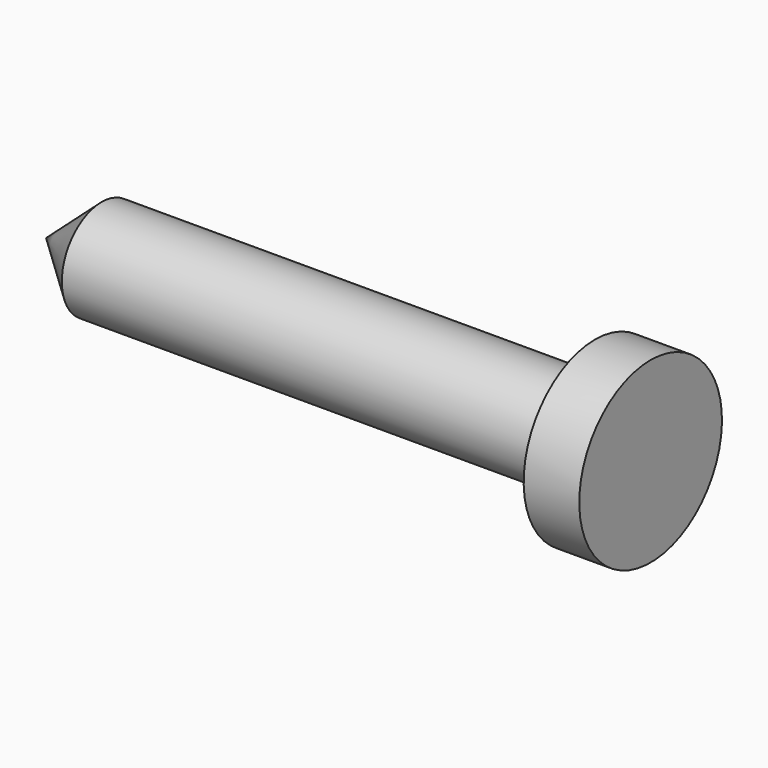
from build123d import *

# Parameters (mm, degrees)
F0_W = 60.7562530786
F0_H = 6.1326734722


with BuildPart() as f1:
    # F0 (on Front) → F1 (revolve)
    with BuildSketch(Plane.XZ):
        with Locations((-3.5655079409, 3.0663367361)):
            Rectangle(F0_W, F0_H)
        Polygon((-33.9436344802, 0), (-33.9436344802, 6.1326734722), (-40.7894141972, 0), align=None)
        Polygon((26.8126185983, 10.9817655757), (26.8126185983, 6.1326734722), (26.8126185983, 0), (33.6583964527, 0), (33.6583964527, 10.9817655757), align=None)
    revolve(axis=Axis((-3.5655079409, 0, 0), (1, 0, 0)))


solid = f1.part
